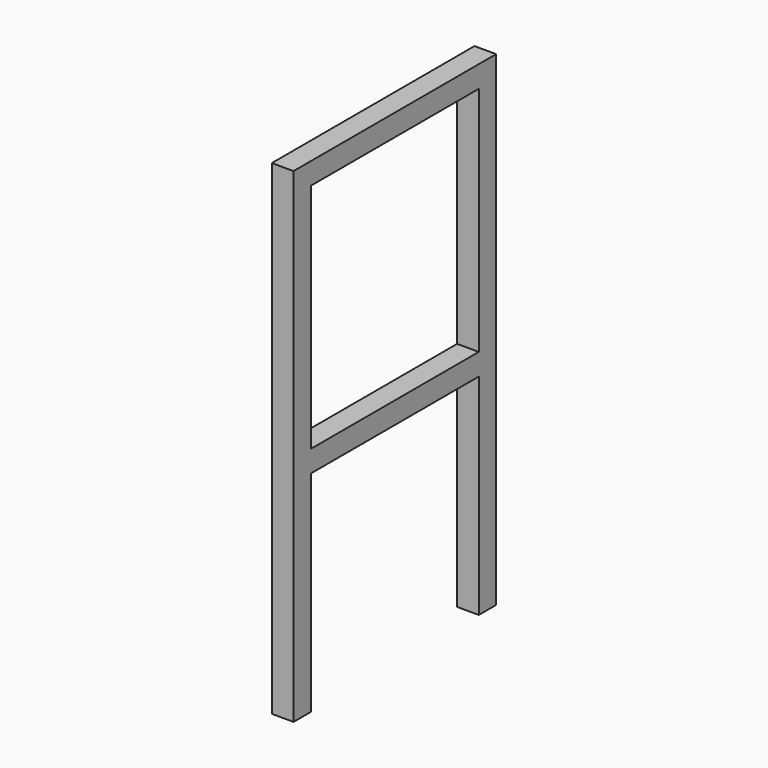
from build123d import *

# Parameters (mm, degrees)
F0_W     = 290
F0_H     = 320
F1_DEPTH = 30


with BuildPart() as f1:
    # F0 (on Right) → F1 (new body)
    with BuildSketch(Plane.YZ):
        Polygon((0, -670), (0, 0), (-350, 0), (-350, -670), (-320, -670), (-320, -380), (-30, -380), (-30, -670), align=None)
        with Locations((-175, -190)):
            Rectangle(F0_W, F0_H, mode=Mode.SUBTRACT)
    extrude(amount=F1_DEPTH)


solid = f1.part
